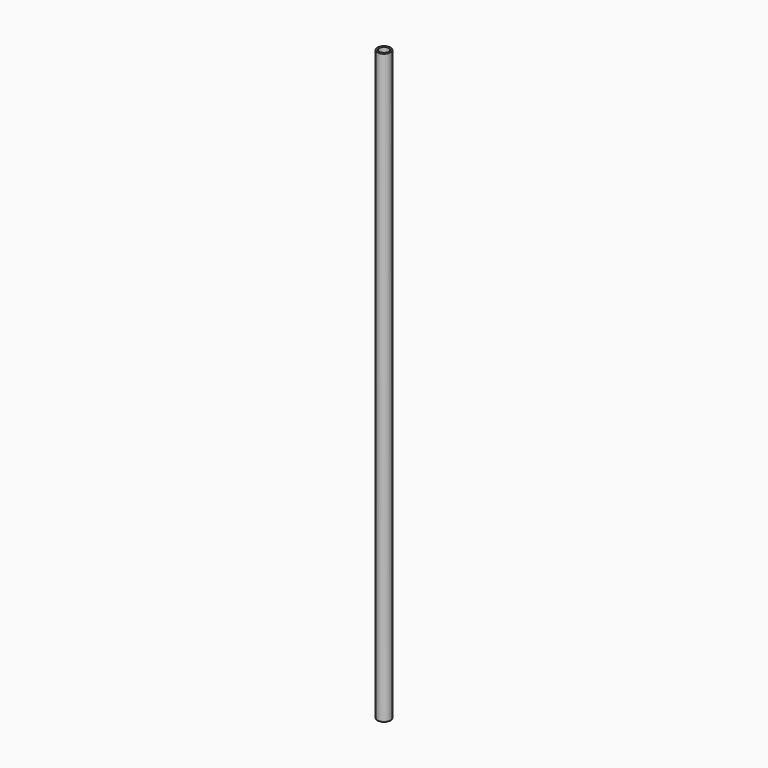
from build123d import *

# Parameters (mm, degrees)
CYLINDER001_R     = 7.5
CYLINDER001_DEPTH = 900
CYLINDER_R        = 10
CYLINDER_DEPTH    = 900


with BuildPart() as cylinder001:
    # Cylinder001 → Cylinder001 (new body)
    with BuildSketch(Plane.XY):
        Circle(CYLINDER001_R)
    extrude(amount=CYLINDER001_DEPTH)


with BuildPart() as tubebase:
    # Cylinder → Cylinder (new body)
    with BuildSketch(Plane.XY):
        Circle(CYLINDER_R)
    extrude(amount=CYLINDER_DEPTH)

    # Cut: cut Cylinder001
    add(cylinder001.part, mode=Mode.SUBTRACT)


solid = tubebase.part
